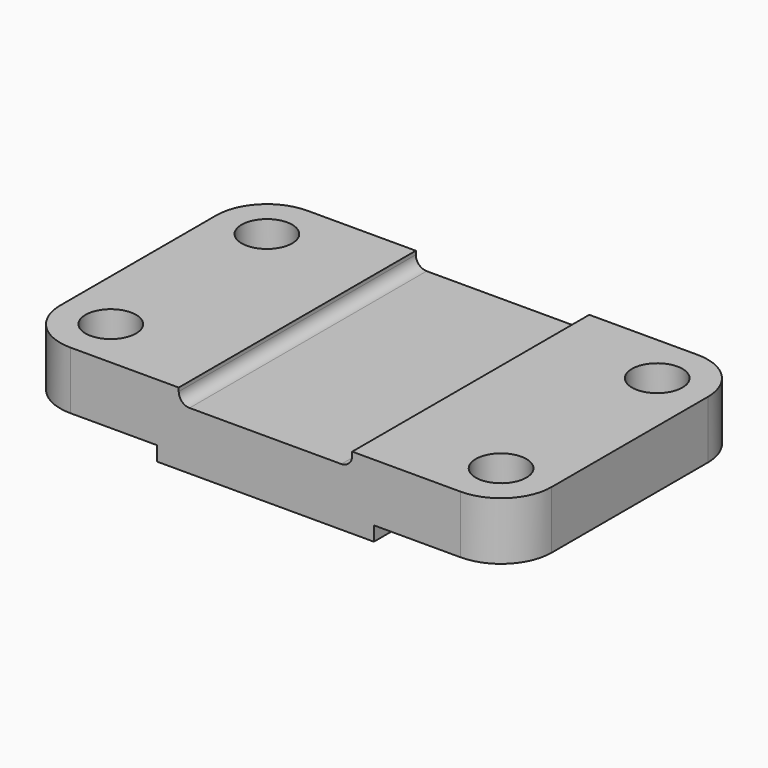
from build123d import *

# Parameters (mm, degrees)
F1_DEPTH = 82
F2_R     = 3
F3_R     = 7
F4_DEPTH = 16.001
F5_R     = 14


with BuildPart() as f1:
    # F0 (on Front) → F1 (new body)
    with BuildSketch(Plane.XZ):
        Polygon((0, 16), (0, 0), (38, 0), (38, -4), (98, -4), (98, 0), (136, 0), (136, 16), (92, 16), (92, 12), (44, 12), (44, 16), align=None)
    extrude(amount=-F1_DEPTH)

    # F2
    f2_edges = [f1.edges().sort_by_distance(p)[0] for p in [
        (44, 41, 12),
        (92, 41, 12),
    ]]
    fillet(f2_edges, radius=F2_R)

    # F3 (on Top) → F4 (cut, through all)
    with BuildSketch(Plane.XY):
        with Locations((14, 14)):
            Circle(F3_R)
        with Locations((122, 14)):
            Circle(F3_R)
        with Locations((14, 68)):
            Circle(F3_R)
        with Locations((122, 68)):
            Circle(F3_R)
    extrude(amount=F4_DEPTH, mode=Mode.SUBTRACT)

    # F5
    f5_edges = [f1.edges().sort_by_distance(p)[0] for p in [
        (0, 0, 8),
        (0, 82, 8),
        (136, 0, 8),
        (136, 82, 8),
    ]]
    fillet(f5_edges, radius=F5_R)


solid = f1.part
